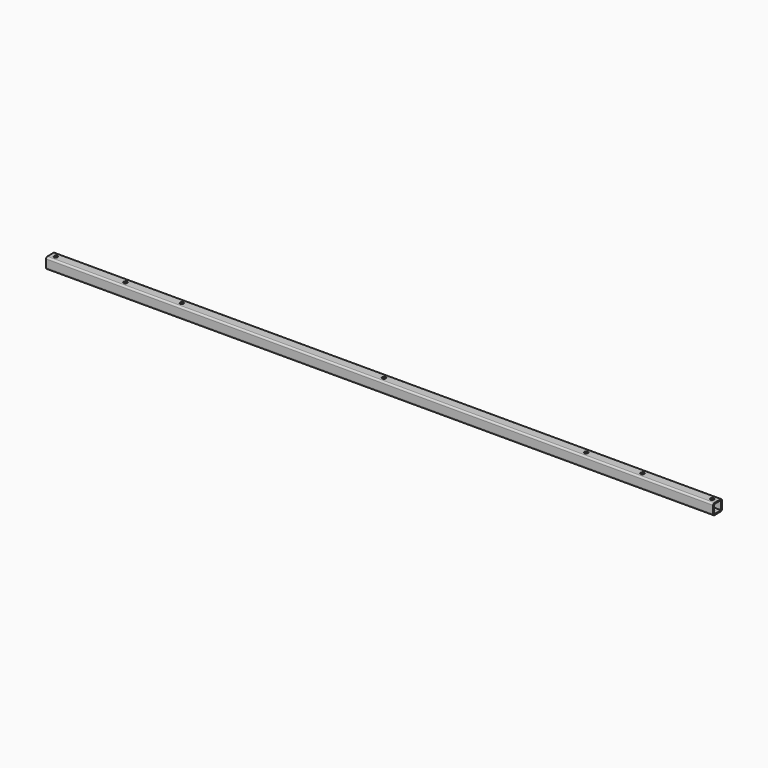
from build123d import *

# Parameters (mm, degrees)
F0_R     = 3.25
F1_DEPTH = 20
F2_W     = 16
F2_H     = 16
F3_DEPTH = 1220
F4_R     = 3


with BuildPart() as f1:
    # F0 (on Top) → F1 (new body)
    with BuildSketch(Plane.XY):
        Polygon((549.784225, -111.698022), (-658.215775, -111.698022), (-658.215775, -131.698022), (-49.215775, -131.698022), (319.784225, -131.698022), (422.784225, -131.698022), (559.784225, -131.698022), (559.784225, -121.698022), (559.784225, -111.698022), align=None)
        with Locations((-521.215775, -121.698022)):
            Circle(F0_R, mode=Mode.SUBTRACT)
        with Locations((-418.215775, -121.698022)):
            Circle(F0_R, mode=Mode.SUBTRACT)
        with Locations((-49.215775, -121.698022)):
            Circle(F0_R, mode=Mode.SUBTRACT)
        with Locations((319.784225, -121.698022)):
            Circle(F0_R, mode=Mode.SUBTRACT)
        with Locations((422.784225, -121.698022)):
            Circle(F0_R, mode=Mode.SUBTRACT)
        with Locations((-648.215775, -121.698022)):
            Circle(F0_R, mode=Mode.SUBTRACT)
        with Locations((549.784225, -121.698022)):
            Circle(F0_R, mode=Mode.SUBTRACT)
    extrude(amount=F1_DEPTH)

    # F2 (on face) → F3 (cut)
    with BuildSketch(Plane(origin=(-658.215775, 0, 0), x_dir=(0, -1, 0), z_dir=(-1, 0, 0))):
        with Locations((121.698022, 10)):
            Rectangle(F2_W, F2_H)
    extrude(amount=-F3_DEPTH, mode=Mode.SUBTRACT)

    # F4
    f4_edges = [f1.edges().sort_by_distance(p)[0] for p in [
        (-49.215775, -131.698022, 20),
        (-49.215775, -111.698022, 20),
        (-49.215775, -131.698022, 0),
        (-49.215775, -111.698022, 0),
    ]]
    fillet(f4_edges, radius=F4_R)


solid = f1.part
